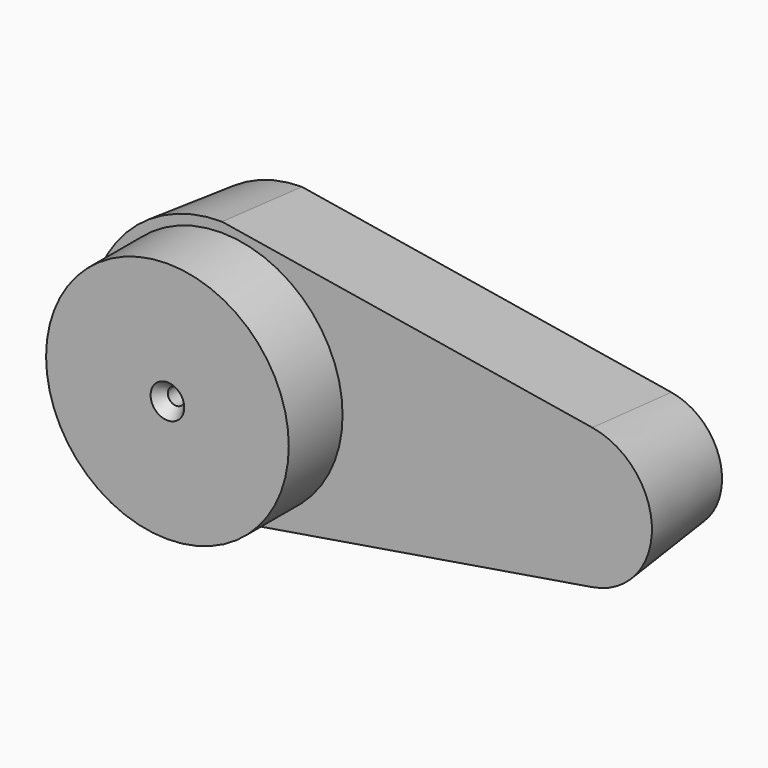
from build123d import *

# Parameters (mm, degrees)
F1_DEPTH         = 38.1
F1_TAPER         = -6
F2_R             = 45.8282272946
F3_DEPTH         = 25.4
F5_D             = 6.35
F5_CSINK_D       = 12.7
F5_CSINK_ANGLE   = 75
F5_2_D           = 6.35
F5_2_CSINK_D     = 12.7
F5_2_CSINK_ANGLE = 75


with BuildPart() as f1:
    # F0 (on Front) → F1 (new body)
    with BuildSketch(Plane.XZ):
        with BuildLine():
            Line((0, -45.5176194787), (139.4948799936, -22.5674361626))
            ThreePointArc((139.4948799936, -22.5674361626), (158.6528310814, 0), (139.4948799936, 22.5674361626))
            Line((139.4948799936, 22.5674361626), (0, 45.5176194787))
            ThreePointArc((0, 45.5176194787), (-45.5176194787, 0), (0, -45.5176194787))
        make_face()
    extrude(amount=F1_DEPTH, taper=F1_TAPER)

    # F5 (through all)
    with Locations(Plane.XZ.offset(63.5)):
        with Locations((0, 0)):
            CounterSinkHole(F5_D / 2, F5_CSINK_D / 2, counter_sink_angle=F5_CSINK_ANGLE)


with BuildPart() as f3:
    # F2 (on face) → F3 (new body)
    with BuildSketch(Plane.XZ.offset(38.1)):
        Circle(F2_R)
    extrude(amount=F3_DEPTH)

    # F5#2 (through all)
    with Locations(Plane.XZ.offset(63.5)):
        with Locations((0, 0)):
            CounterSinkHole(F5_2_D / 2, F5_2_CSINK_D / 2, counter_sink_angle=F5_2_CSINK_ANGLE)


solid = Compound([f1.part, f3.part])
